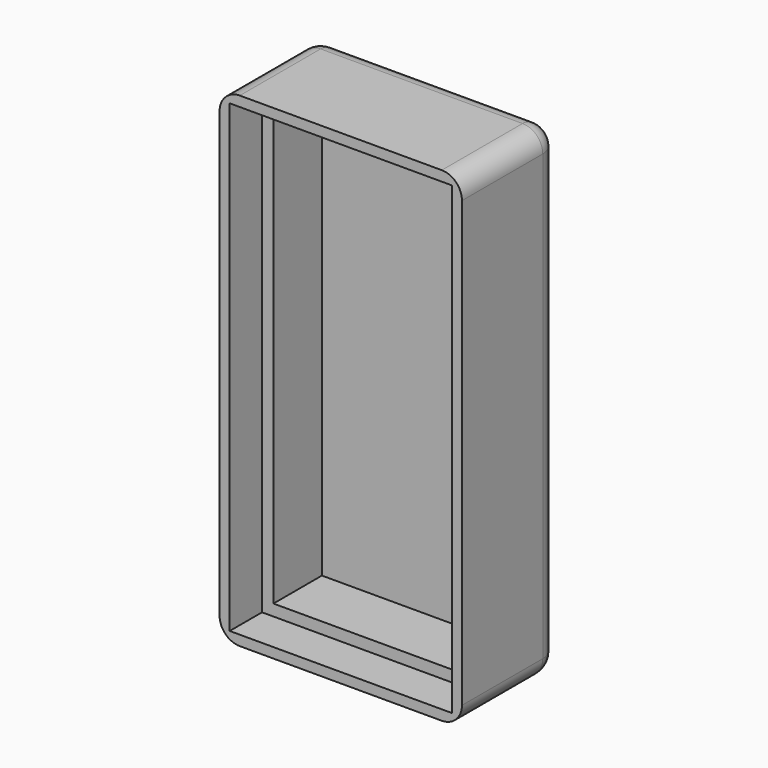
from build123d import *

# Parameters (mm, degrees)
F1_W     = 60
F1_H     = 120
F1_W_2   = 55
F1_H_2   = 115
F1_W_3   = 50
F1_H_3   = 110
F2_DEPTH = 20
F3_W     = 55
F3_H     = 115
F5_DEPTH = 10
F0_W     = 60
F0_H     = 120
F6_DEPTH = 5
F7_R     = 5


with BuildPart() as f2:
    # F1 (on face) → F2 (new body)
    with BuildSketch(Plane.XZ):
        with Locations((6.1764717102, 26.1096255195)):
            Rectangle(F1_W, F1_H)
        with Locations((6.14081949, 26.4180475473)):
            Rectangle(F1_W_2, F1_H_2, mode=Mode.SUBTRACT)
        with Locations((6.14081949, 26.4180475473)):
            Rectangle(F1_W_2, F1_H_2)
        with Locations((6.5019752085, 26.4363238215)):
            Rectangle(F1_W_3, F1_H_3, mode=Mode.SUBTRACT)
    extrude(amount=F2_DEPTH)

    # F3 (on face) → F5 (join)
    with BuildSketch(Plane.XZ.offset(20)):
        Polygon((36.1764717102, 86.1096255195), (-23.8235282898, 86.1096255195), (-23.8235282898, 83.6096255195), (-23.8235282898, -33.8903744805), (36.1764717102, -33.8903744805), align=None)
        with Locations((6.1764717102, 26.1096255195)):
            Rectangle(F3_W, F3_H, mode=Mode.SUBTRACT)
    extrude(amount=F5_DEPTH)

    # F0 (on Front) → F6 (join)
    with BuildSketch(Plane.XZ):
        with Locations((6.1764717102, 26.1096255195)):
            Rectangle(F0_W, F0_H)
    extrude(amount=F6_DEPTH)

    # F7
    f7_edges = [f2.edges().sort_by_distance(p)[0] for p in [
        (36.176472, -15, 86.109626),
        (36.176472, 0, 26.109626),
        (6.176472, 0, 86.109626),
        (-23.823528, -15, 86.109626),
        (-23.823528, 0, 26.109626),
        (6.176472, 0, -33.890374),
        (36.176472, -15, -33.890374),
        (-23.823528, -15, -33.890374),
    ]]
    fillet(f7_edges, radius=F7_R)


solid = f2.part
